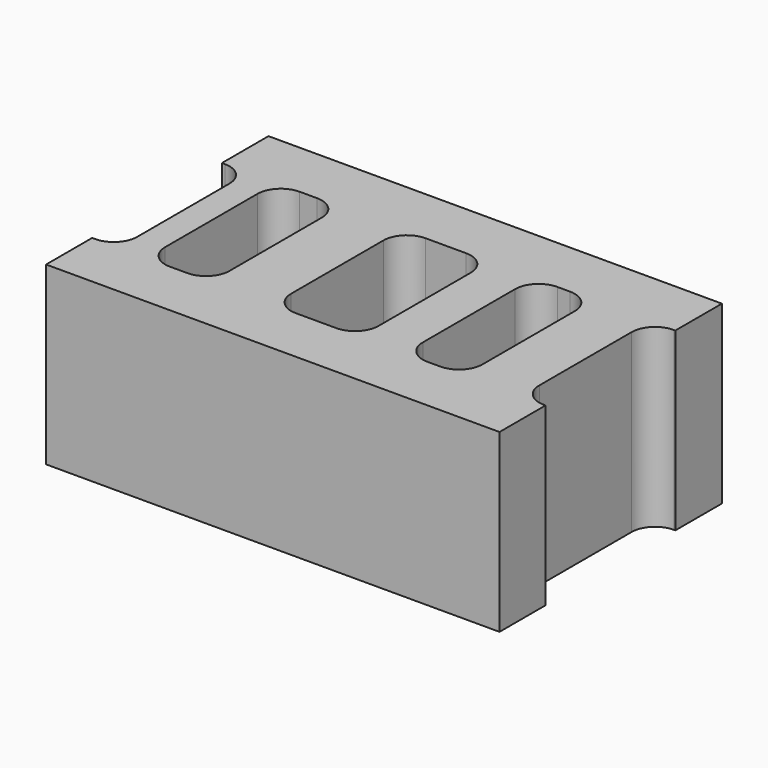
from build123d import *

# Parameters (mm, degrees)
F1_DEPTH = 38.1


with BuildPart() as f1:
    # F0 (on Top) → F1 (new body)
    with BuildSketch(Plane.XY):
        with BuildLine():
            Line((-48.936699, 12.459343), (-48.936699, 0))
            Line((-48.936699, 0), (49.236927, 0))
            Line((49.236927, 0), (49.236927, 12.459343))
            Line((49.236927, 12.459343), (48.912868, 12.459343))
            ThreePointArc((48.912868, 12.459343), (45.320766, 13.947241), (43.832868, 17.539343))
            Line((43.832868, 17.539343), (43.832868, 42.505685))
            ThreePointArc((43.832868, 42.505685), (45.320766, 46.097787), (48.912868, 47.585685))
            Line((48.912868, 47.585685), (49.236927, 47.585685))
            Line((49.236927, 47.585685), (49.236927, 60.195141))
            Line((49.236927, 60.195141), (-48.936699, 60.195141))
            Line((-48.936699, 60.195141), (-48.936699, 47.585685))
            Line((-48.936699, 47.585685), (-48.312422, 47.585685))
            ThreePointArc((-48.312422, 47.585685), (-44.72032, 46.097787), (-43.232422, 42.505685))
            Line((-43.232422, 42.505685), (-43.232422, 17.539343))
            ThreePointArc((-43.232422, 17.539343), (-44.72032, 13.947241), (-48.312422, 12.459343))
            Line((-48.312422, 12.459343), (-48.936699, 12.459343))
        make_face()
        with BuildLine():
            Line((-37.188571, 17.539343), (-37.188571, 42.505685))
            ThreePointArc((-37.188571, 42.505685), (-35.700673, 46.097787), (-32.108571, 47.585685))
            Line((-32.108571, 47.585685), (-28.335535, 47.585685))
            ThreePointArc((-28.335535, 47.585685), (-24.743432, 46.097787), (-23.255535, 42.505685))
            Line((-23.255535, 42.505685), (-23.255535, 17.539343))
            ThreePointArc((-23.255535, 17.539343), (-24.743432, 13.947241), (-28.335535, 12.459343))
            Line((-28.335535, 12.459343), (-32.108571, 12.459343))
            ThreePointArc((-32.108571, 12.459343), (-35.700673, 13.947241), (-37.188571, 17.539343))
        make_face(mode=Mode.SUBTRACT)
        with BuildLine():
            Line((-9.907429, 17.539343), (-9.907429, 42.505685))
            ThreePointArc((-9.907429, 42.505685), (-8.419532, 46.097787), (-4.827429, 47.585685))
            Line((-4.827429, 47.585685), (3.926755, 47.585685))
            ThreePointArc((3.926755, 47.585685), (7.518858, 46.097787), (9.006755, 42.505685))
            Line((9.006755, 42.505685), (9.006755, 17.539343))
            ThreePointArc((9.006755, 17.539343), (7.518858, 13.947241), (3.926755, 12.459343))
            Line((3.926755, 12.459343), (-4.827429, 12.459343))
            ThreePointArc((-4.827429, 12.459343), (-8.419532, 13.947241), (-9.907429, 17.539343))
        make_face(mode=Mode.SUBTRACT)
        with BuildLine():
            Line((18.613957, 17.539343), (18.613957, 42.505685))
            ThreePointArc((18.613957, 42.505685), (20.101854, 46.097787), (23.693957, 47.585685))
            Line((23.693957, 47.585685), (26.443641, 47.585685))
            ThreePointArc((26.443641, 47.585685), (30.035744, 46.097787), (31.523641, 42.505685))
            Line((31.523641, 42.505685), (31.523641, 17.539343))
            ThreePointArc((31.523641, 17.539343), (30.035744, 13.947241), (26.443641, 12.459343))
            Line((26.443641, 12.459343), (23.693957, 12.459343))
            ThreePointArc((23.693957, 12.459343), (20.101854, 13.947241), (18.613957, 17.539343))
        make_face(mode=Mode.SUBTRACT)
    extrude(amount=F1_DEPTH)


solid = f1.part
